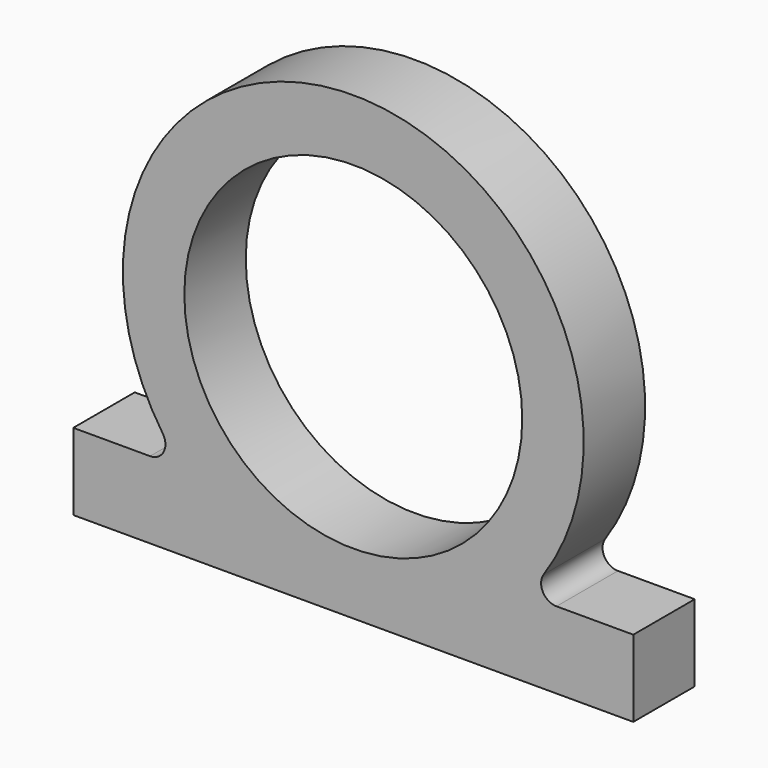
from build123d import *

# Parameters (mm, degrees)
F0_R     = 11
F1_DEPTH = 5


with BuildPart() as f1:
    # F0 (on Front) → F1 (new body)
    with BuildSketch(Plane.XZ):
        with BuildLine():
            ThreePointArc((13.228757, -10), (12.344873, -9.467707), (12.401959, -8.4375))
            ThreePointArc((12.401959, -8.4375), (0, 15), (-12.401959, -8.4375))
            ThreePointArc((-12.401959, -8.4375), (-12.344873, -9.467707), (-13.228757, -10))
            Line((-13.228757, -10), (-18.228757, -10))
            Line((-18.228757, -10), (-18.228757, -15))
            Line((-18.228757, -15), (18.228757, -15))
            Line((18.228757, -15), (18.228757, -10))
            Line((18.228757, -10), (13.228757, -10))
        make_face()
        Circle(F0_R, mode=Mode.SUBTRACT)
    extrude(amount=F1_DEPTH)


solid = f1.part
